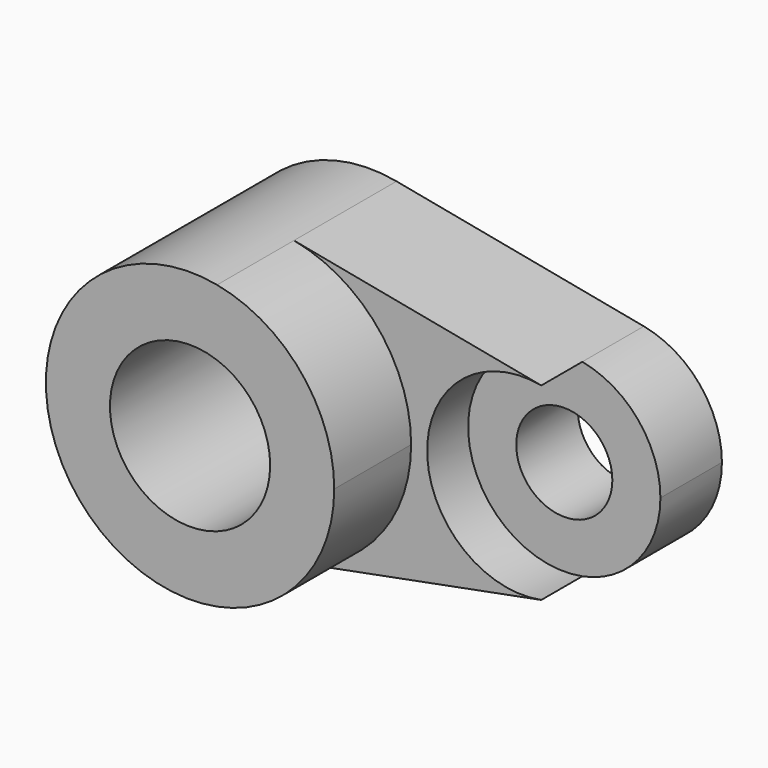
from build123d import *

# Parameters (mm, degrees)
F0_R     = 15.875
F1_DEPTH = 44.45
F2_DEPTH = 25.4
F0_R_2   = 9.525
F3_DEPTH = 15.24


with BuildPart() as f1:
    # F0 (on Front) → F1 (new body)
    with BuildSketch(Plane.XZ):
        with BuildLine():
            ThreePointArc((28.575, 0), (22.018516, 18.21306), (5.357812, 28.068211))
            ThreePointArc((5.357812, 28.068211), (-28.575, 0), (5.357812, -28.068211))
            ThreePointArc((5.357812, -28.068211), (22.018516, -18.21306), (28.575, 0))
        make_face()
        Circle(F0_R, mode=Mode.SUBTRACT)
    extrude(amount=F1_DEPTH)

    # F0 (on Front) → F2 (join)
    with BuildSketch(Plane.XZ):
        with BuildLine():
            ThreePointArc((54.371875, -18.712141), (31.75, 0), (54.371875, 18.712141))
            Line((54.371875, 18.712141), (5.357812, 28.068211))
            ThreePointArc((5.357812, 28.068211), (22.018516, 18.21306), (28.575, 0))
            ThreePointArc((28.575, 0), (22.018516, -18.21306), (5.357812, -28.068211))
            Line((5.357812, -28.068211), (54.371875, -18.712141))
        make_face()
    extrude(amount=F2_DEPTH)

    # F0 (on Front) → F3 (join)
    with BuildSketch(Plane.XZ):
        with BuildLine():
            ThreePointArc((54.371875, -18.712141), (65.479011, -12.14204), (69.85, 0))
            ThreePointArc((69.85, 0), (65.479011, 12.14204), (54.371875, 18.712141))
            ThreePointArc((54.371875, 18.712141), (31.75, 0), (54.371875, -18.712141))
        make_face()
        with Locations((50.8, 0)):
            Circle(F0_R_2, mode=Mode.SUBTRACT)
    extrude(amount=F3_DEPTH)


solid = f1.part
